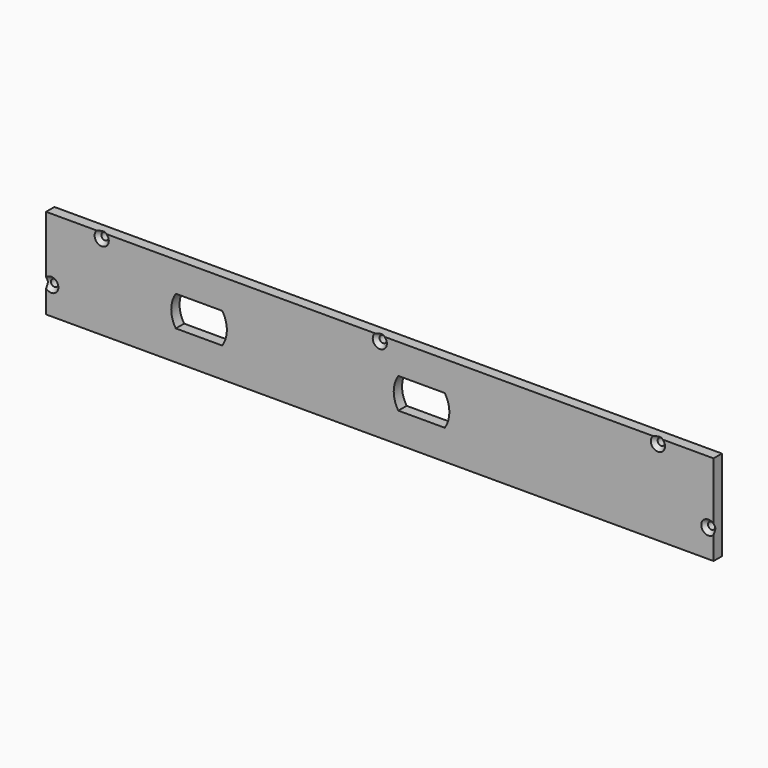
from build123d import *

# Parameters (mm, degrees)
F0_W           = 304.8
F0_H           = 41.275
F1_DEPTH       = 4.7625
F3_D           = 3.2639
F3_DEPTH       = 14.605
F3_CSINK_D     = 6.477
F3_CSINK_ANGLE = 82
F3_TIP         = 0.9805744872
F5_DEPTH       = 25.4


with BuildPart() as f1:
    # F0 (on Front) → F1 (new body)
    with BuildSketch(Plane.XZ):
        with Locations((33.2768968371, 36.1280379981)):
            Rectangle(F0_W, F0_H)
    extrude(amount=F1_DEPTH)

    # F3
    with Locations(Plane.XZ.offset(4.7625)):
        with Locations((-93.7231031629, 54.3842879981), (-116.7418531629, 28.1905379981), (33.2768968371, 54.3842879981), (160.2768968371, 54.3842879981), (183.2956468371, 28.1905379981)):
            CounterSinkHole(F3_D / 2, F3_CSINK_D / 2, depth=F3_DEPTH, counter_sink_angle=F3_CSINK_ANGLE)
            with Locations((0, 0, -(F3_DEPTH + F3_TIP / 2))):  # 118° drill point
                Cone(0, F3_D / 2, F3_TIP, mode=Mode.SUBTRACT)

    # F4 (on face) → F5 (cut)
    with BuildSketch(Plane.XZ.offset(4.7625)):
        with BuildLine():
            Line((-38.6665120517, 43.1130379981), (-59.879694274, 43.1130379981))
            ThreePointArc((-59.879694274, 43.1130379981), (-61.9731031629, 36.1280379981), (-59.879694274, 29.1430379981))
            Line((-59.879694274, 29.1430379981), (-38.6665120517, 29.1430379981))
            ThreePointArc((-38.6665120517, 29.1430379981), (-36.5731031629, 36.1280379981), (-38.6665120517, 43.1130379981))
        make_face()
        with BuildLine():
            ThreePointArc((62.9334879483, 29.1430379981), (65.0268968371, 36.1280379981), (62.9334879483, 43.1130379981))
            Line((62.9334879483, 43.1130379981), (41.720305726, 43.1130379981))
            ThreePointArc((41.720305726, 43.1130379981), (39.6268968371, 36.1280379981), (41.720305726, 29.1430379981))
            Line((41.720305726, 29.1430379981), (62.9334879483, 29.1430379981))
        make_face()
    extrude(amount=-F5_DEPTH, mode=Mode.SUBTRACT)


solid = f1.part
